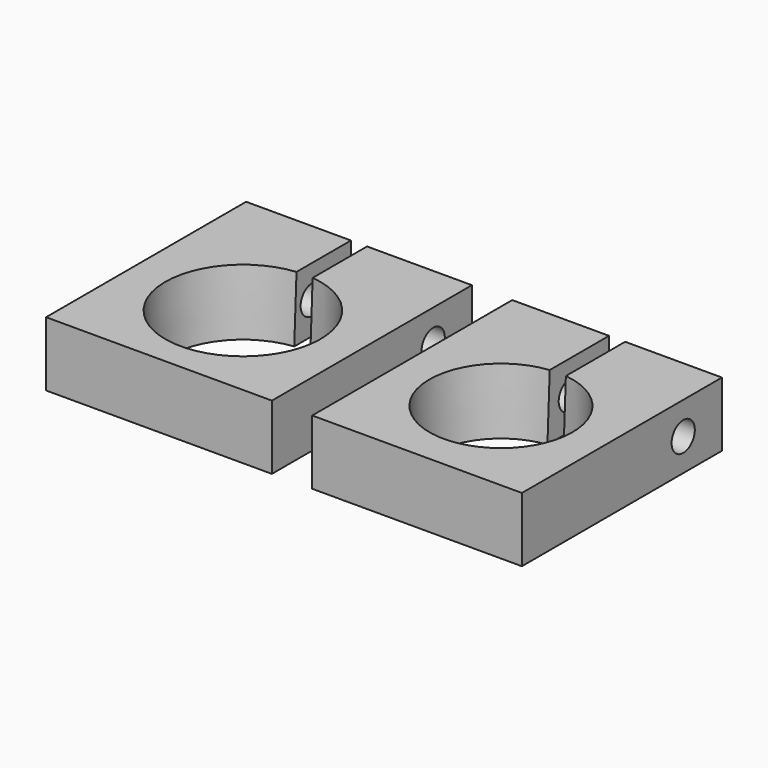
from build123d import *

# Parameters (mm, degrees)
BOX002_W                = 2
BOX002_H                = 29
BOX002_DEPTH            = 19
CYLINDER_R              = 1.8
CYLINDER_DEPTH          = 43
CYLINDER_PITCH_ANGLE    = 90
BOX_W                   = 26
BOX_H                   = 31
BOX_DEPTH               = 8
BOX004_W                = 2
BOX004_H                = 29
BOX004_DEPTH            = 19
CYLINDER001_R           = 1.8
CYLINDER001_DEPTH       = 43
CYLINDER001_PITCH_ANGLE = 90
BOX005_W                = 28
BOX005_H                = 31
BOX005_DEPTH            = 8


with BuildPart() as cube002:
    # Box002 → Box002 (new body)
    with BuildSketch(Plane(origin=(-1, 0, 0), x_dir=(1, 0, 0), z_dir=(0, 0, 1))):
        with Locations((1, 14.5)):
            Rectangle(BOX002_W, BOX002_H)
    extrude(amount=BOX002_DEPTH)


with BuildPart() as cylinder:
    # Cylinder → Cylinder (new body)
    with BuildSketch(Plane.XY):
        Circle(CYLINDER_R)
    extrude(amount=CYLINDER_DEPTH)


with BuildPart() as cylinder_1:
    # Cylinder pitch: moved
    add(cylinder.part.rotate(Axis((0, 0, 0), (0, 1, 0)), CYLINDER_PITCH_ANGLE))


with BuildPart() as cylinder_2:
    # Cylinder placement: moved
    add(cylinder_1.part.moved(Location((-23, 12, 10))))


with BuildPart() as cone_neg:
    # Cone001 → Cone001 (revolve)
    with BuildSketch(Plane.XZ):
        Polygon((0, 0), (8.25, 0), (9, 17), (0, 17), align=None)
    revolve(axis=Axis((0, 0, 0), (0, 0, 1)))


with BuildPart() as clamp_neg:
    # Box → Box (new body)
    with BuildSketch(Plane(origin=(-13, -13, 6), x_dir=(1, 0, 0), z_dir=(0, 0, 1))):
        with Locations((13, 15.5)):
            Rectangle(BOX_W, BOX_H)
    extrude(amount=BOX_DEPTH)

    # Cut: cut cone-neg
    add(cone_neg.part, mode=Mode.SUBTRACT)

    # Cut001: cut Cylinder
    add(cylinder_2.part, mode=Mode.SUBTRACT)

    # Cut002: cut Cube002
    add(cube002.part, mode=Mode.SUBTRACT)


with BuildPart() as clamp_neg_1:
    # Cut002 placement: moved
    add(clamp_neg.part.moved(Location((32, 0, 0))))


with BuildPart() as cube004:
    # Box004 → Box004 (new body)
    with BuildSketch(Plane(origin=(-1, 0, 0), x_dir=(1, 0, 0), z_dir=(0, 0, 1))):
        with Locations((1, 14.5)):
            Rectangle(BOX004_W, BOX004_H)
    extrude(amount=BOX004_DEPTH)


with BuildPart() as cylinder001:
    # Cylinder001 → Cylinder001 (new body)
    with BuildSketch(Plane.XY):
        Circle(CYLINDER001_R)
    extrude(amount=CYLINDER001_DEPTH)


with BuildPart() as cylinder001_1:
    # Cylinder001 pitch: moved
    add(cylinder001.part.rotate(Axis((0, 0, 0), (0, 1, 0)), CYLINDER001_PITCH_ANGLE))


with BuildPart() as cylinder001_2:
    # Cylinder001 placement: moved
    add(cylinder001_1.part.moved(Location((-23, 12, 10))))


with BuildPart() as cone_pos:
    # Cone → Cone (revolve)
    with BuildSketch(Plane.XZ):
        Polygon((0, 0), (9, 0), (9.75, 17), (0, 17), align=None)
    revolve(axis=Axis((0, 0, 0), (0, 0, 1)))


with BuildPart() as clamp_pos:
    # Box005 → Box005 (new body)
    with BuildSketch(Plane(origin=(-14, -13, 6), x_dir=(1, 0, 0), z_dir=(0, 0, 1))):
        with Locations((14, 15.5)):
            Rectangle(BOX005_W, BOX005_H)
    extrude(amount=BOX005_DEPTH)

    # Cut003: cut cone-pos
    add(cone_pos.part, mode=Mode.SUBTRACT)

    # Cut004: cut Cylinder001
    add(cylinder001_2.part, mode=Mode.SUBTRACT)

    # Cut005: cut Cube004
    add(cube004.part, mode=Mode.SUBTRACT)


solid = Compound([clamp_neg_1.part, clamp_pos.part])
